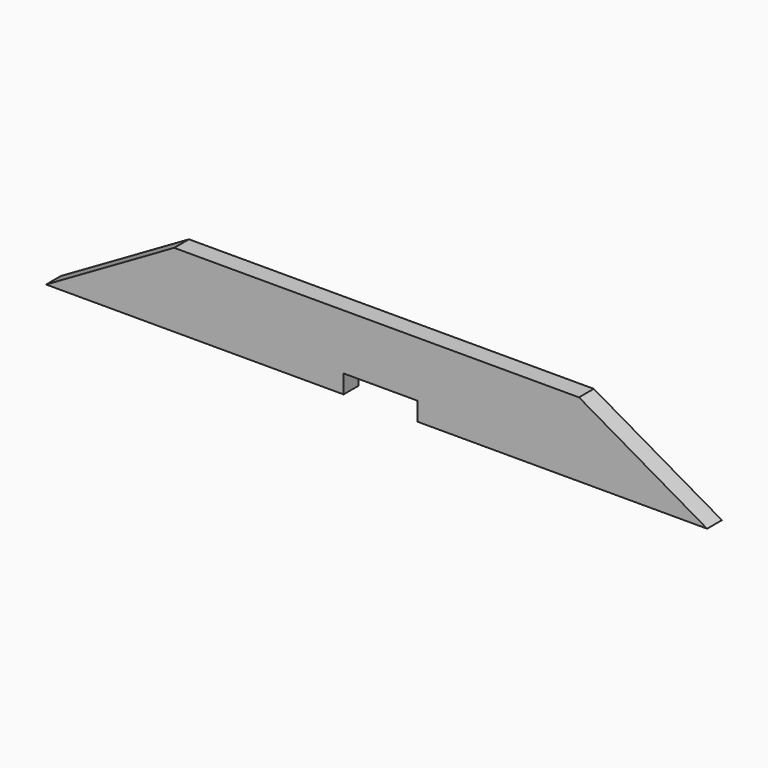
from build123d import *

# Parameters (mm, degrees)
F2_DEPTH = 12.7
F3_W     = 101.6
F3_H     = 25.4
F4_DEPTH = 50


with BuildPart() as f2:
    # F1 (on Front) → F2 (new body, symmetric)
    with BuildSketch(Plane.XZ):
        Polygon((-283.658414, 440.6), (-459.634776, 339), (448.271281, 339), (272.294919, 440.6), align=None)
    extrude(amount=F2_DEPTH, both=True)

    # F3 (on Front) → F4 (cut, symmetric)
    with BuildSketch(Plane.XZ):
        with Locations((-0.2, 351.7)):
            Rectangle(F3_W, F3_H)
    extrude(amount=F4_DEPTH, both=True, mode=Mode.SUBTRACT)


solid = f2.part
